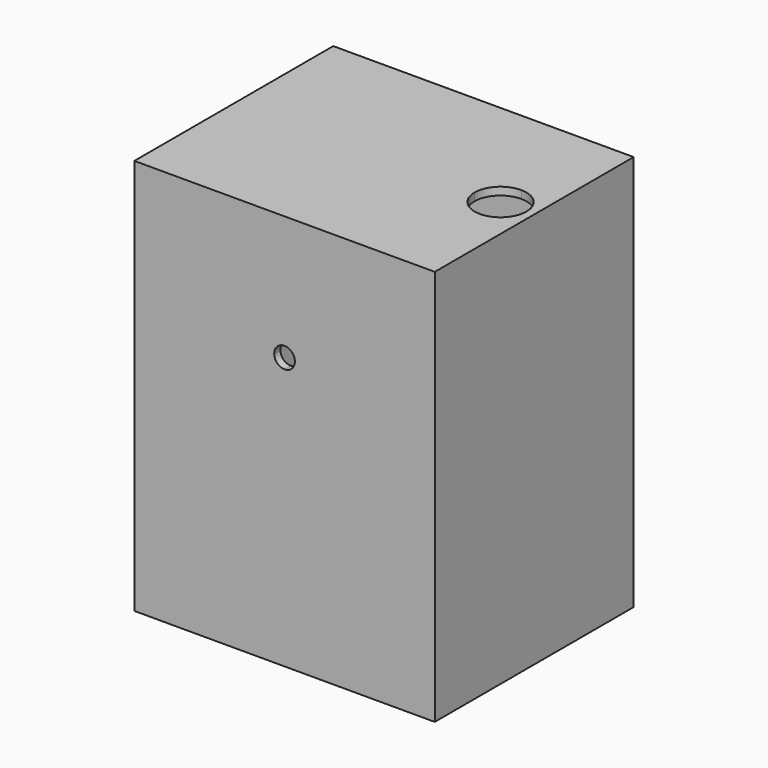
from build123d import *

# Parameters (mm, degrees)
F0_W          = 110
F0_H          = 90
F1_DEPTH      = 75
F2_T          = 3
F4_DEPTH      = 25.4
F6_DEPTH      = 25.4
F6_DEPTH_BACK = 126.746


with BuildPart() as f1:
    # F0 (on Top) → F1 (new body, symmetric)
    with BuildSketch(Plane.XY):
        Rectangle(F0_W, F0_H)
    extrude(amount=F1_DEPTH, both=True)

    # F2
    f2_openings = [f1.faces().sort_by_distance(p)[0] for p in [
        (0, 0, -75),
    ]]
    offset(amount=F2_T, openings=f2_openings, kind=Kind.INTERSECTION)

    # F3 (on face) → F4 (cut)
    with BuildSketch(Plane.XY.offset(78)):
        with BuildLine():
            ThreePointArc((45, -10), (52.0710678119, -7.0710678119), (55, 0))
            ThreePointArc((55, 0), (52.0710678119, 7.0710678119), (45, 10))
            ThreePointArc((45, 10), (37.9289321881, 7.0710678119), (35, 0))
            ThreePointArc((35, 0), (37.9289321881, -7.0710678119), (45, -10))
        make_face()
    extrude(amount=-F4_DEPTH, mode=Mode.SUBTRACT)

    # F5 (on face) → F6 (cut, two sides)
    with BuildSketch(Plane(origin=(0, -45, 0), x_dir=(-1, 0, 0), z_dir=(0, 1, 0))) as f6_sk:
        with BuildLine():
            ThreePointArc((4, 30), (-2.8284271247, 32.8284271247), (0, 26))
            ThreePointArc((0, 26), (2.8284271247, 27.1715728753), (4, 30))
        make_face()
    extrude(amount=-F6_DEPTH, mode=Mode.SUBTRACT)
    extrude(f6_sk.sketch, amount=F6_DEPTH_BACK, mode=Mode.SUBTRACT)


solid = f1.part
